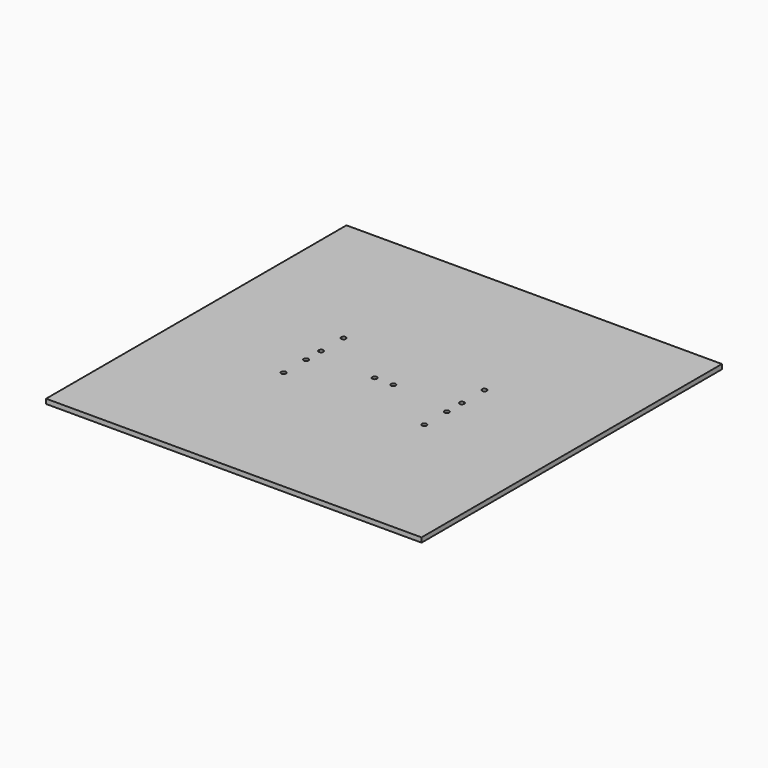
from build123d import *

# Parameters (mm, degrees)
F0_W     = 400
F0_H     = 400
F1_DEPTH = 5
F3_D     = 5
F4_W     = 30
F4_H     = 30
F4_R     = 2.5
F5_DEPTH = 10
F6_W     = 30
F6_H     = 10
F7_DEPTH = 30
F9_D     = 3
F10_D    = 8


with BuildPart() as f1:
    # F0 (on Top) → F1 (new body)
    with BuildSketch(Plane.XY):
        Rectangle(F0_W, F0_H)
    extrude(amount=F1_DEPTH)

    # F3 (through all)
    with Locations(Plane(origin=(0, 0, 0), x_dir=(1, 0, 0), z_dir=(0, 0, -1))):
        with Locations((-75, -40), (-75, -10), (-75, 10), (-75, 40), (75, -40), (75, -10), (75, 10), (75, 40), (-10, 0), (10, 0)):
            Hole(F3_D / 2)


with BuildPart() as f5:
    # F4 (on face) → F5 (new body)
    with BuildSketch(Plane.XY):
        with Locations((0, -5)):
            Rectangle(F4_W, F4_H)
        with Locations((-10, 0)):
            Circle(F4_R, mode=Mode.SUBTRACT)
        with Locations((10, 0)):
            Circle(F4_R, mode=Mode.SUBTRACT)
    extrude(amount=-F5_DEPTH)

    # F6 (on face) → F7 (join)
    with BuildSketch(Plane(origin=(0, 0, -10), x_dir=(1, 0, 0), z_dir=(0, 0, -1))):
        with Locations((0, 15)):
            Rectangle(F6_W, F6_H)
    extrude(amount=F7_DEPTH)

    # F9 (through all)
    with Locations(Plane.XZ.offset(20)):
        with Locations((-8, -17), (-8, -33), (8, -17), (8, -33)):
            Hole(F9_D / 2)

    # F10 (through all)
    with Locations(Plane.XZ.offset(20)):
        with Locations((0, -25)):
            Hole(F10_D / 2)


solid = Compound([f1.part, f5.part])
